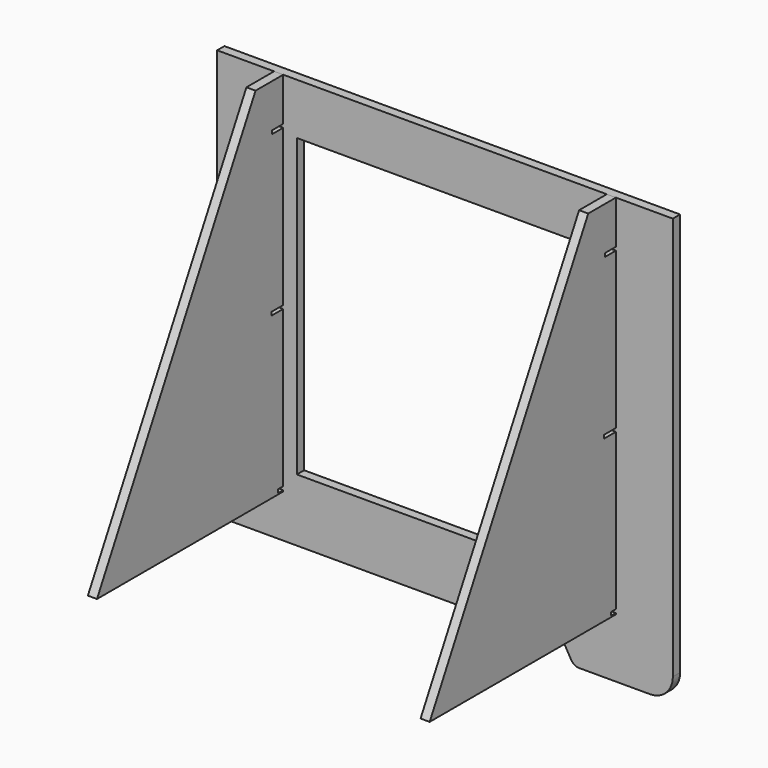
from build123d import *

# Parameters (mm, degrees)
F0_W     = 8
F0_H     = 15
F0_R     = 1.5
F0_W_2   = 260
F0_H_2   = 260
F1_DEPTH = 8
F2_W     = 8
F2_H     = 15
F3_DEPTH = 8


with BuildPart() as f1:
    # F0 (on Front) → F1 (new body)
    with BuildSketch(Plane.XZ):
        with BuildLine():
            Line((200, 322.098305), (-200, 322.098305))
            Line((-200, 322.098305), (-200, -37.901695))
            Line((-200, -37.901695), (105, -37.901695))
            Line((105, -37.901695), (110.773503, -47.901695))
            ThreePointArc((110.773503, -47.901695), (113.701706, -50.829898), (117.701706, -51.901695))
            Line((117.701706, -51.901695), (180, -51.901695))
            ThreePointArc((180, -51.901695), (194.142136, -46.043831), (200, -31.901695))
            Line((200, -31.901695), (200, 322.098305))
        make_face()
        with Locations((-146, 20.5)):
            Rectangle(F0_W, F0_H, mode=Mode.SUBTRACT)
        with Locations((-146, 40.5)):
            Circle(F0_R, mode=Mode.SUBTRACT)
        with Locations((-146, 60.5)):
            Rectangle(F0_W, F0_H, mode=Mode.SUBTRACT)
        with Locations((146, 20.5)):
            Rectangle(F0_W, F0_H, mode=Mode.SUBTRACT)
        with Locations((146, 40.5)):
            Circle(F0_R, mode=Mode.SUBTRACT)
        with Locations((146, 60.5)):
            Rectangle(F0_W, F0_H, mode=Mode.SUBTRACT)
        with Locations((-146, 160.5)):
            Rectangle(F0_W, F0_H, mode=Mode.SUBTRACT)
        with Locations((-146, 180.5)):
            Circle(F0_R, mode=Mode.SUBTRACT)
        with Locations((-146, 200.5)):
            Rectangle(F0_W, F0_H, mode=Mode.SUBTRACT)
        with Locations((-146, 262.598305)):
            Rectangle(F0_W, F0_H, mode=Mode.SUBTRACT)
        with Locations((-146, 282.598305)):
            Circle(F0_R, mode=Mode.SUBTRACT)
        with Locations((-146, 302.598305)):
            Rectangle(F0_W, F0_H, mode=Mode.SUBTRACT)
        with Locations((0, 147.098305)):
            Rectangle(F0_W_2, F0_H_2, mode=Mode.SUBTRACT)
        with Locations((146, 160.5)):
            Rectangle(F0_W, F0_H, mode=Mode.SUBTRACT)
        with Locations((146, 180.5)):
            Circle(F0_R, mode=Mode.SUBTRACT)
        with Locations((146, 200.5)):
            Rectangle(F0_W, F0_H, mode=Mode.SUBTRACT)
        with Locations((146, 262.598305)):
            Rectangle(F0_W, F0_H, mode=Mode.SUBTRACT)
        with Locations((146, 282.598305)):
            Circle(F0_R, mode=Mode.SUBTRACT)
        with Locations((146, 302.598305)):
            Rectangle(F0_W, F0_H, mode=Mode.SUBTRACT)
    extrude(amount=F1_DEPTH)


with BuildPart() as f3:
    # F2 (on face) → F3 (new body)
    with BuildSketch(Plane.YZ.offset(-150)):
        Polygon((0, 284.098305), (0, 322.098305), (-38.343132, 322.098305), (-212.311924, 0), (0, 0), (0, 1.098305), (-13.610147, 1.098305), (-13.610147, 4.098305), (0, 4.098305), (0, 141.098305), (-20.911708, 141.098305), (-20.911708, 144.098305), (0, 144.098305), (0, 193), (-8, 193), (-8, 208), (0, 208), (0, 281.098305), (-20.023387, 281.098305), (-20.023387, 284.098305), align=None)
        with Locations((-4, 200.5)):
            Rectangle(F2_W, F2_H)
    extrude(amount=F3_DEPTH)

    # F4: cut F1
    add(f1.part, mode=Mode.SUBTRACT)


with BuildPart() as f5_1:
    # F5: instance of F3
    add(f3.part.mirror(Plane.YZ))


solid = Compound([f1.part, f3.part, f5_1.part])
